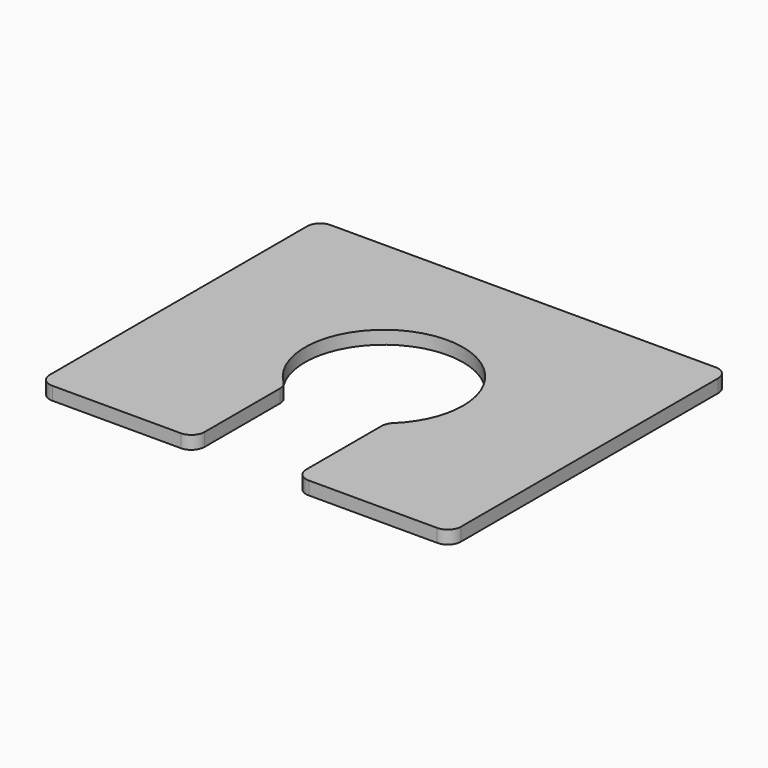
from build123d import *

# Parameters (mm, degrees)
F1_DEPTH = 25
F2_R     = 25


with BuildPart() as f1:
    # F0 (on Top) → F1 (new body)
    with BuildSketch(Plane.XY):
        with BuildLine():
            Line((390, -330), (390, 330))
            Line((390, 330), (-390, 330))
            Line((-390, 330), (-390, -330))
            Line((-390, -330), (-96.352231, -330))
            Line((-96.352231, -330), (-96.352231, -114.96194))
            ThreePointArc((-96.352231, -114.96194), (-63.431717, 135.927986), (150, 0))
            ThreePointArc((150, 0), (135.927986, -63.431717), (96.352231, -114.96194))
            Line((96.352231, -114.96194), (96.352231, -330))
            Line((96.352231, -330), (390, -330))
        make_face()
    extrude(amount=F1_DEPTH)

    # F2
    f2_edges = [f1.edges().sort_by_distance(p)[0] for p in [
        (-96.352231, -114.96194, 12.5),
        (96.352231, -114.96194, 12.5),
        (96.352231, -330, 12.5),
        (390, -330, 12.5),
        (-96.352231, -330, 12.5),
        (-390, -330, 12.5),
        (390, 330, 12.5),
        (-390, 330, 12.5),
    ]]
    fillet(f2_edges, radius=F2_R)


solid = f1.part
